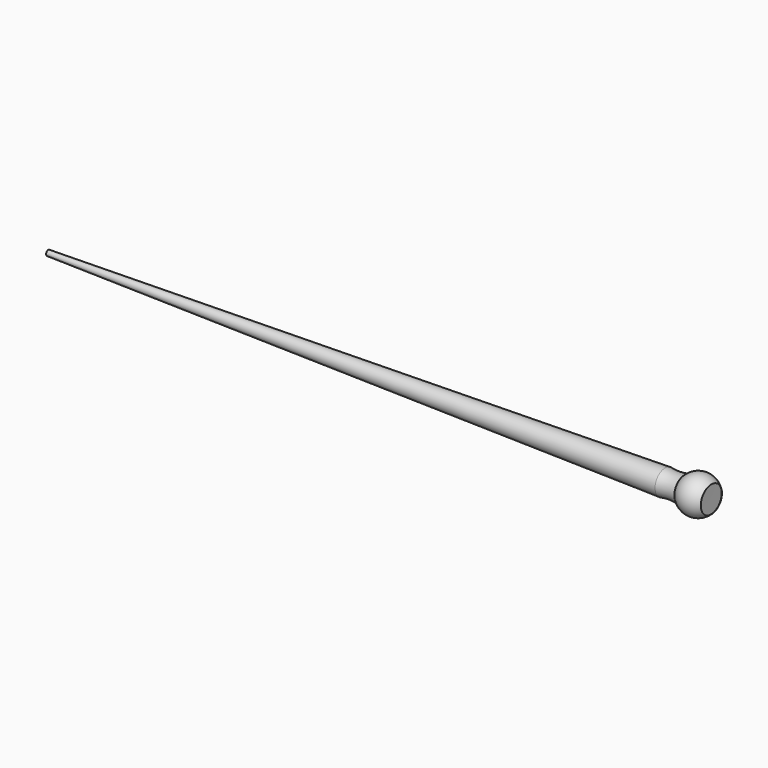
from build123d import *


with BuildPart() as f1:
    # F0 (on Front) → F1 (revolve)
    with BuildSketch(Plane.XZ):
        with BuildLine():
            ThreePointArc((-10.1549801349, -4.8972103576), (-11.6012822817, -2.623383227), (-12.1036212367, 0.0242072425))
            Line((-12.1036212367, 0.0242072425), (-254, 0.508))
            Line((-254, 0.508), (-254, -0.508))
            Line((-254, -0.508), (-17.647928887, -4.76233728))
            ThreePointArc((-17.647928887, -4.76233728), (-13.8946190018, -4.4500233115), (-10.1549801349, -4.8972103576))
        make_face()
        with BuildLine():
            ThreePointArc((0.0870099537, -5.0679584932), (0.0434974692, -5.0739249977), (0, -5.08))
            Line((0, -5.08), (-10.1549801349, -4.8972103576))
            ThreePointArc((-10.1549801349, -4.8972103576), (-5.0699853135, -7.1419867772), (0.0870099537, -5.0679584932))
        make_face()
        with BuildLine():
            Line((0, -5.08), (0, 0))
            Line((0, 0), (-12.1036212367, 0.0242072425))
            ThreePointArc((-12.1036212367, 0.0242072425), (-11.6012822817, -2.623383227), (-10.1549801349, -4.8972103576))
            Line((-10.1549801349, -4.8972103576), (0, -5.08))
        make_face()
    revolve(axis=Axis((-127, 0, 0.254), (-0.999998, 0, 0.001999996)))


solid = f1.part
